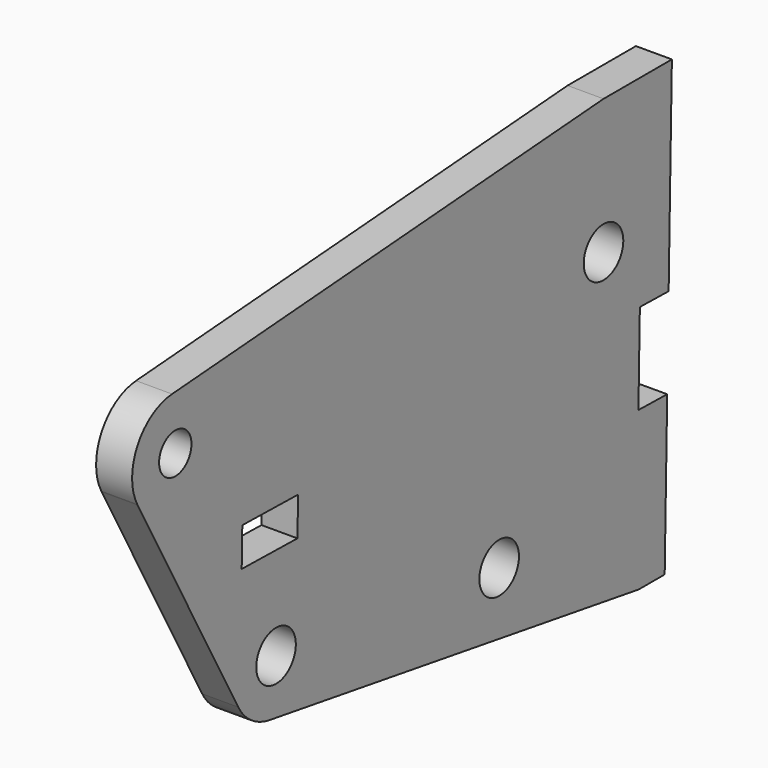
from build123d import *

# Parameters (mm, degrees)
F0_R     = 5.5
F0_R_2   = 4.5
F1_DEPTH = 8


with BuildPart() as f1:
    # F0 (on Right) → F1 (new body)
    with BuildSketch(Plane.YZ):
        with BuildLine():
            Line((18.09978, -15.010997), (19, 30))
            Line((19, 30), (0, 30))
            Line((0, 30), (-119.901578, 20.966084))
            ThreePointArc((-119.901578, 20.966084), (-129.529171, 14.756436), (-129.559844, 3.300026))
            Line((-129.559844, 3.300026), (-129.477568, 3.150166))
            Line((-129.477568, 3.150166), (-101.518973, -47.775051))
            ThreePointArc((-101.518973, -47.775051), (-97.964444, -51.772232), (-93.026112, -53.827716))
            Line((-93.026112, -53.827716), (9.776271, -70))
            Line((9.776271, -70), (17, -70))
            Line((17, -70), (17.69986, -35.006998))
            Line((17.69986, -35.006998), (9.70146, -34.84703))
            Line((9.70146, -34.84703), (10.10138, -14.851029))
            Line((10.10138, -14.851029), (18.09978, -15.010997))
        make_face()
        with Locations((-91, -42)):
            Circle(F0_R, mode=Mode.SUBTRACT)
        with Locations((-29, -50)):
            Circle(F0_R, mode=Mode.SUBTRACT)
        Polygon((-100.376527, -12.641471), (-84.879626, -12.951409), (-85.049592, -21.449709), (-100.546493, -21.139771), align=None, mode=Mode.SUBTRACT)
        with Locations((-119, 9)):
            Circle(F0_R_2, mode=Mode.SUBTRACT)
        Circle(F0_R, mode=Mode.SUBTRACT)
    extrude(amount=F1_DEPTH)


solid = f1.part
